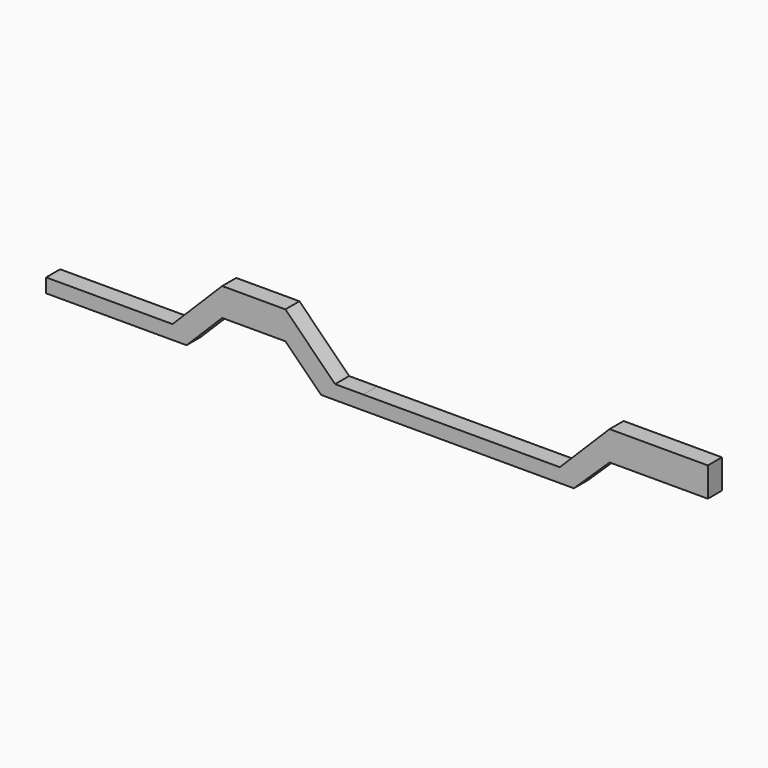
from build123d import *

# Parameters (mm, degrees)
F1_DEPTH = 7.9375
F2_DEPTH = 7.9375
F0_W     = 57.15
F0_H     = 25.4
F3_DEPTH = 7.9375
F4_DEPTH = 7.9375
F5_DEPTH = 7.9375
F6_DEPTH = 7.9375
F0_W_2   = 88.9
F0_H_2   = 26.509378
F7_DEPTH = 7.9375


with BuildPart() as f1:
    # F0 (on Front) → F1 (new body, symmetric)
    with BuildSketch(Plane.XZ):
        Polygon((-232.758469, -69.13498), (-232.758469, -81.83498), (-105.758469, -81.83498), (-118.458469, -69.13498), align=None)
    extrude(amount=F1_DEPTH, both=True)

    # F0 (on Front) → F2 (join, symmetric)
    with BuildSketch(Plane.XZ):
        Polygon((-118.458469, -69.13498), (-105.758469, -81.83498), (-73.557188, -49.6337), (-73.557188, -24.2337), align=None)
    extrude(amount=F2_DEPTH, both=True)

    # F0 (on Front) → F3 (join, symmetric)
    with BuildSketch(Plane.XZ):
        with Locations((-44.982188, -36.9337)):
            Rectangle(F0_W, F0_H)
    extrude(amount=F3_DEPTH, both=True)

    # F0 (on Front) → F4 (join, symmetric)
    with BuildSketch(Plane.XZ):
        Polygon((-16.407188, -24.2337), (-16.407188, -49.6337), (15.794092, -81.83498), (28.494092, -69.13498), align=None)
    extrude(amount=F4_DEPTH, both=True)

    # F0 (on Front) → F5 (join, symmetric)
    with BuildSketch(Plane.XZ):
        Polygon((28.494092, -69.13498), (15.794092, -81.83498), (53.894092, -81.83498), (244.394092, -81.83498), (231.69601, -69.136898), (53.894092, -69.13498), align=None)
    extrude(amount=F5_DEPTH, both=True)

    # F0 (on Front) → F6 (join, symmetric)
    with BuildSketch(Plane.XZ):
        Polygon((231.69601, -69.136898), (244.394092, -81.83498), (276.599208, -50.743078), (276.599208, -24.2337), align=None)
    extrude(amount=F6_DEPTH, both=True)

    # F0 (on Front) → F7 (join, symmetric)
    with BuildSketch(Plane.XZ):
        with Locations((321.049208, -37.488389)):
            Rectangle(F0_W_2, F0_H_2)
    extrude(amount=F7_DEPTH, both=True)


solid = f1.part
